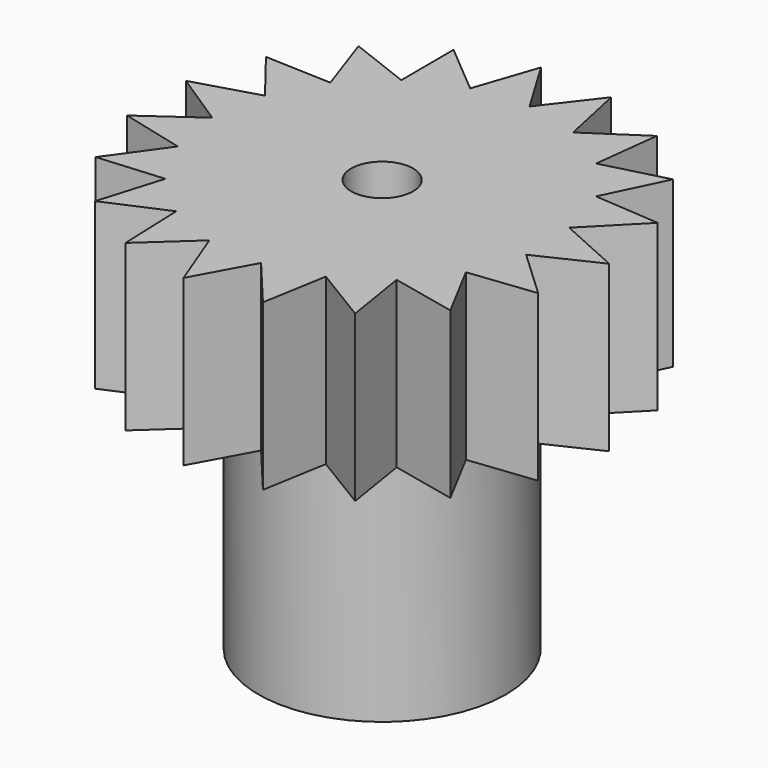
from build123d import *

# Parameters (mm, degrees)
F0_R     = 3
F1_DEPTH = 6
F2_R     = 3
F3_DEPTH = 4
F4_R     = 0.75
F5_DEPTH = 25.4


with BuildPart() as f1:
    # F0 (on Top) → F1 (new body)
    with BuildSketch(Plane.XY):
        Circle(F0_R)
    extrude(amount=F1_DEPTH)

    # F2 (on face) → F3 (join)
    with BuildSketch(Plane.XY.offset(6)):
        Polygon((4.04302, -0.693343), (5.5, 0), (3.986969, 0.681121), (5.168309, 1.881111), (3.582234, 1.998583), (4.281007, 3.452967), (2.742315, 3.050646), (2.932624, 4.652925), (1.607039, 3.774144), (1.268387, 5.351747), (0.298678, 4.091152), (-0.53246, 5.474165), (-1.041851, 3.967528), (-2.275959, 5.006996), (-2.270169, 3.416587), (-3.774329, 4.000555), (-3.253981, 2.497667), (-4.86619, 2.563239), (-3.887328, 1.309739), (-5.433944, 0.849853), (-4.101995, -0.019253), (-5.416443, -0.955065), (-3.874862, -1.346171), (-4.81557, -2.657119), (-3.230392, -2.528102), (-3.696043, -4.072992), (-2.237997, -3.437747), (-2.178439, -5.050189), (-1.004562, -3.977133), (-0.426208, -5.483461), (0.337069, -4.088168), (1.371926, -5.326145), (1.642396, -3.758892), (3.022299, -4.595183), (2.770831, -3.024769), (4.34716, -3.369303), (3.600837, -1.964868), (5.203815, -1.780537), align=None)
        Circle(F2_R, mode=Mode.SUBTRACT)
        Circle(F2_R)
    extrude(amount=F3_DEPTH)

    # F4 (on face) → F5 (cut)
    with BuildSketch(Plane(origin=(0, 0, 0), x_dir=(1, 0, 0), z_dir=(0, 0, -1))):
        Circle(F4_R)
    extrude(amount=-F5_DEPTH, mode=Mode.SUBTRACT)


solid = f1.part
